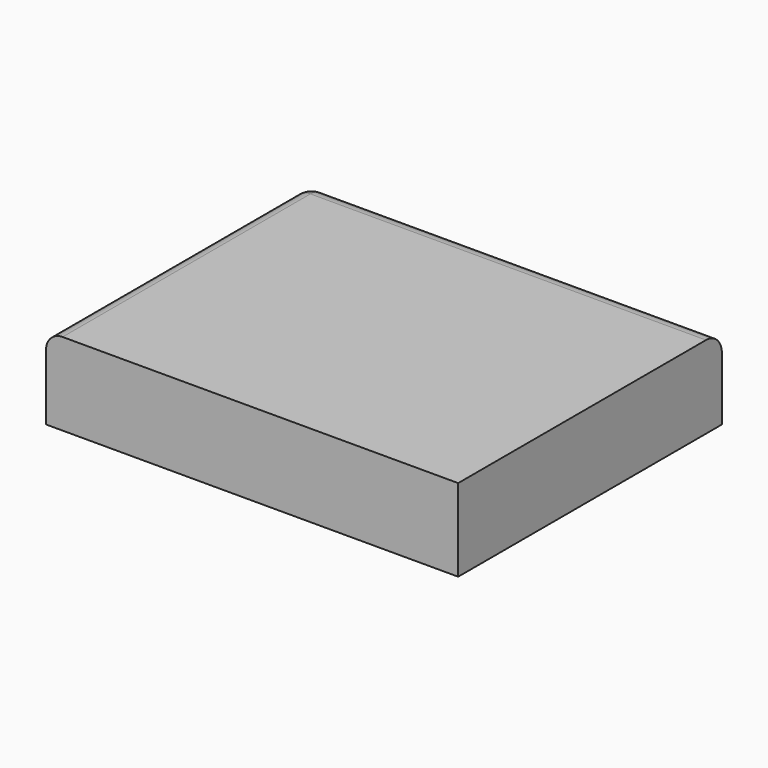
from build123d import *

# Parameters (mm, degrees)
F0_W     = 127
F0_H     = 101.6
F1_DEPTH = 25.4
F2_R     = 6.132102
F3_R     = 5.08


with BuildPart() as f1:
    # F0 (on Top) → F1 (new body)
    with BuildSketch(Plane.XY):
        Rectangle(F0_W, F0_H)
    extrude(amount=F1_DEPTH)

    # F2
    f2_edges = [f1.edges().sort_by_distance(p)[0] for p in [
        (0, 50.8, 25.4),
    ]]
    fillet(f2_edges, radius=F2_R)

    # F3
    f3_edges = [f1.edges().sort_by_distance(p)[0] for p in [
        (-63.5, -3.066051, 25.4),
    ]]
    fillet(f3_edges, radius=F3_R)


solid = f1.part
